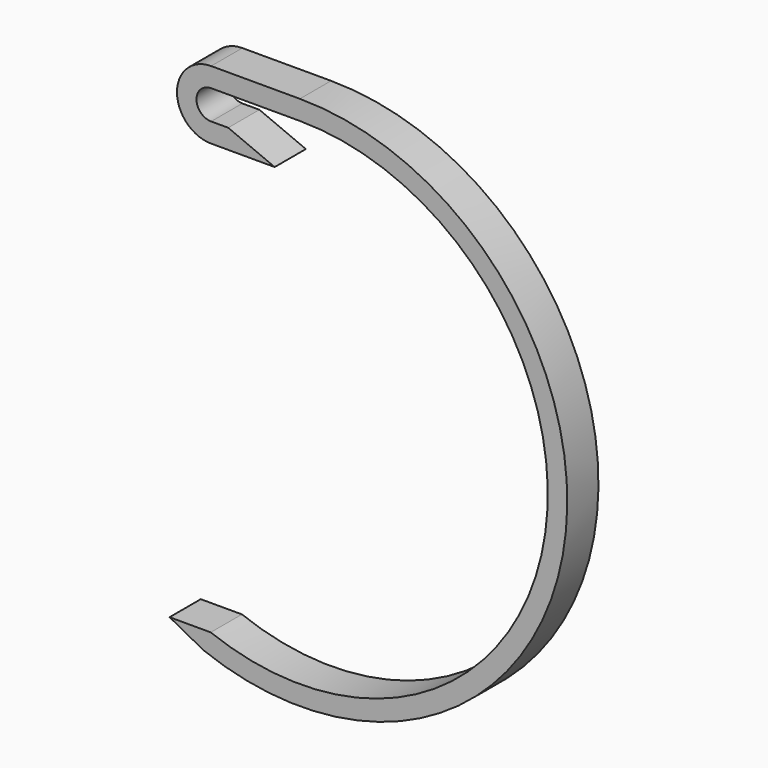
from build123d import *

# Parameters (mm, degrees)
F1_DEPTH = 10


with BuildPart() as f1:
    # F0 (on Front) → F1 (new body)
    with BuildSketch(Plane.XZ):
        with BuildLine():
            ThreePointArc((-35.581168, -116.657823), (56.493287, -65.216884), (-10.920648, 15.895611))
            Line((-10.920648, 15.895611), (-33.676889, 15.895611))
            ThreePointArc((-33.676889, 15.895611), (-42.430831, 7.141669), (-33.676889, -1.612273))
            Line((-33.676889, -1.612273), (-29.301442, -1.612273))
            Line((-29.301442, -1.612273), (-17.38406, -1.612273))
            Line((-17.38406, -1.612273), (-29.301442, 3.387727))
            Line((-29.301442, 3.387727), (-33.676889, 3.387727))
            ThreePointArc((-33.676889, 3.387727), (-37.430831, 7.141669), (-33.676889, 10.895611))
            Line((-33.676889, 10.895611), (-10.920648, 10.895611))
            ThreePointArc((-10.920648, 10.895611), (51.577633, -64.302366), (-33.782985, -111.992361))
            Line((-33.782985, -111.992361), (-44.337623, -111.992361))
            Line((-44.337623, -111.992361), (-35.581168, -116.657823))
        make_face()
    extrude(amount=F1_DEPTH)


solid = f1.part
